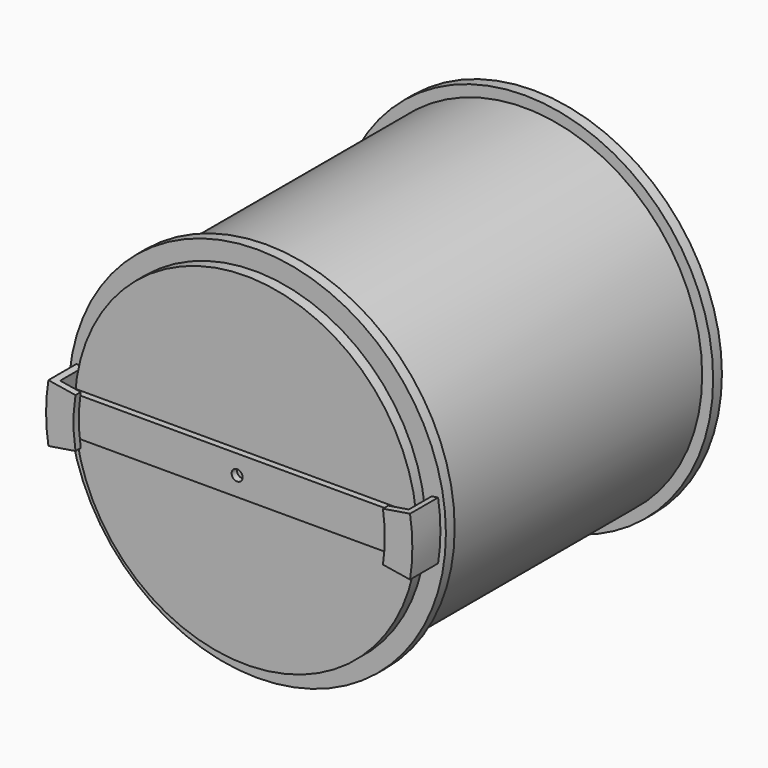
from build123d import *

# Parameters (mm, degrees)
F0_R      = 161.95
F1_DEPTH  = 314.53
F2_T      = -9.53
F6_W      = 10
F6_H      = 10
F9_R      = 156
F10_DEPTH = 10
F12_W     = 312
F12_H     = 35
F12_R     = 5
F13_DEPTH = 6


with BuildPart() as f1:
    # F0 (on Front) → F1 (new body)
    with BuildSketch(Plane.XZ):
        Circle(F0_R)
    extrude(amount=-F1_DEPTH)

    # F2
    f2_openings = [f1.faces().sort_by_distance(p)[0] for p in [
        (0, 0, 0),
    ]]
    offset(amount=F2_T, openings=f2_openings)

    # F5: sweep along a path in F3
    with BuildLine(Plane.XZ) as f5_path:
        ThreePointArc((155.9621427626, -25), (157.9531258795, 0), (155.9621427626, 25))
    # F4 (on Top) → F5 (sweep)
    with BuildSketch(Plane.XY):
        Polygon((166.95, -32), (166.95, 0), (160.95, 0), (160.95, -26), (141.95, -26), (141.95, -32), align=None)
        Polygon((-141.95, -26), (-160.95, -26), (-160.95, 0), (-166.95, 0), (-166.95, -32), (-141.95, -32), align=None)
    sweep(path=f5_path.line)

    # F6 (on Right) → F7 (revolve)
    with BuildSketch(Plane.YZ):
        with Locations((5, 166.95)):
            Rectangle(F6_W, F6_H)
        with Locations((309.53, 166.95)):
            Rectangle(F6_W, F6_H)
    revolve(axis=Axis((0, 0, 0), (0, -1, 0)))


with BuildPart() as f10:
    # F9 (on offset) → F10 (new body)
    with BuildSketch(Plane.XZ.offset(3)):
        Circle(F9_R)
    extrude(amount=F10_DEPTH)


with BuildPart() as f13:
    # F12 (on offset) → F13 (new body)
    with BuildSketch(Plane.XZ.offset(17)):
        Rectangle(F12_W, F12_H)
        Circle(F12_R, mode=Mode.SUBTRACT)
    extrude(amount=F13_DEPTH)


solid = Compound([f1.part, f10.part, f13.part])
